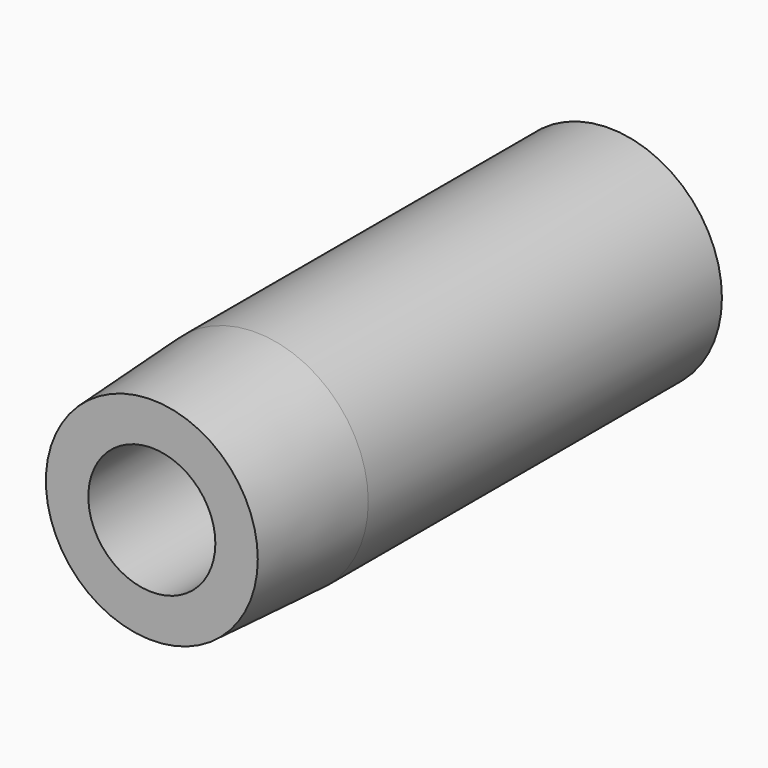
from build123d import *

# Parameters (mm, degrees)
F0_R     = 3.55
F1_DEPTH = 25
F2_SIZE2 = 19.0811366877
F2_SIZE  = 1
F3_R     = 4.5061105162
F4_DEPTH = 15
F5_R     = 2
F6_DEPTH = 25
F7_DEPTH = 8


with BuildPart() as f1:
    # F0 (on Front) → F1 (new body)
    with BuildSketch(Plane.XZ):
        with Locations((-36.0824763775, 37.0747447014)):
            Circle(F0_R)
    extrude(amount=F1_DEPTH)

    # F2
    f2_edges = [f1.edges().sort_by_distance(p)[0] for p in [
        (-39.632476, -25, 37.074745),
    ]]
    f2_side = f1.faces().sort_by_distance((-36.082476, -25, 37.074745))[0]
    chamfer(f2_edges, length=F2_SIZE, length2=F2_SIZE2, reference=f2_side)

    # F3 (on face) → F4 (cut)
    with BuildSketch(Plane.XZ.offset(25)):
        with Locations((-36.0824763775, 37.0747447014)):
            Circle(F3_R)
    extrude(amount=-F4_DEPTH, mode=Mode.SUBTRACT)

    # F5 (on face) → F6 (cut)
    with BuildSketch(Plane.XZ.offset(10)):
        with Locations((-36.0824763775, 37.0747447014)):
            Circle(F5_R)
    extrude(amount=-F6_DEPTH, mode=Mode.SUBTRACT)

    # F7 (add): a face of the model
    f7_faces = [f1.faces().sort_by_distance(p)[0] for p in [
        (-39.5320672146, 0, 37.0747447014),
    ]]
    extrude(f7_faces, amount=F7_DEPTH)


solid = f1.part
